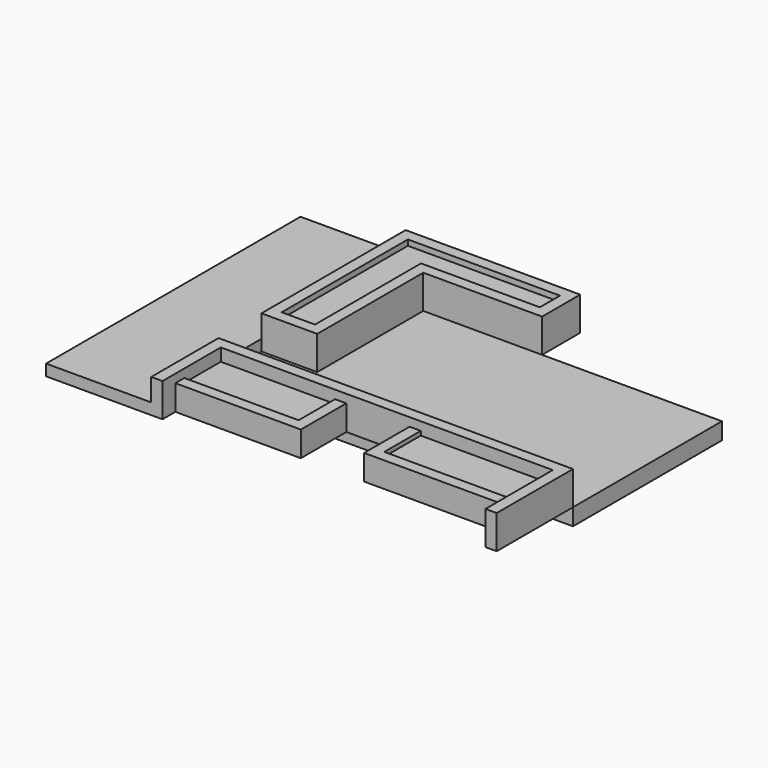
from build123d import *

# Parameters (mm, degrees)
F1_DEPTH = 203.2
F0_W     = 1949.45
F0_H     = 203.2
F2_DEPTH = 609.6
F0_W_2   = 2070.1
F0_W_3   = 2391.2020942688
F3_DEPTH = 457.2
F0_W_4   = 3257.55
F0_H_2   = 3372.4745738983
F4_DEPTH = 304.8
F5_DEPTH = 508
F0_H_3   = 825.5
F6_DEPTH = 381


with BuildPart() as f1:
    # F0 (on Top) → F1 (new body)
    with BuildSketch(Plane.XY):
        Polygon((0, 5760.0745738983), (0, 0), (1905, 0), (1905, 1320.8), (1905, 1524), (1905, 2496.1745738983), (1905, 2699.3745738983), (1905, 5760.0745738983), align=None)
    extrude(amount=F1_DEPTH)

    # F0 (on Top) → F2 (join)
    with BuildSketch(Plane.XY):
        Polygon((2108.2, 5760.0745738983), (1905, 5760.0745738983), (1905, 2699.3745738983), (2108.2, 2699.3745738983), (2108.2, 5556.8745738983), align=None)
        Polygon((5067.3, 5760.0745738983), (2108.2, 5760.0745738983), (2108.2, 5556.8745738983), (4864.1, 5556.8745738983), (5067.3, 5556.8745738983), align=None)
        Polygon((2711.45, 5099.6745738983), (2711.45, 2699.3745738983), (2914.65, 2699.3745738983), (2914.65, 4896.4745738983), (2914.65, 5099.6745738983), align=None)
        with Locations((3889.375, 4998.0745738983)):
            Rectangle(F0_W, F0_H)
        Polygon((4864.1, 4896.4745738983), (5067.3, 4896.4745738983), (5067.3, 5556.8745738983), (4864.1, 5556.8745738983), (4864.1, 5099.6745738983), align=None)
        Polygon((2108.2, 2699.3745738983), (1905, 2699.3745738983), (1905, 2496.1745738983), (2914.65, 2496.1745738983), (2914.65, 2699.3745738983), (2711.45, 2699.3745738983), align=None)
        Polygon((1905, 1320.8), (1905, 0), (2108.2, 0), (2108.2, 292.1), (2108.2, 495.3), (2108.2, 1320.8), align=None)
        Polygon((1905, 1524), (1905, 1320.8), (2108.2, 1320.8), (4178.3, 1320.8), (4381.5, 1320.8), (5527.2479057312, 1320.8), (5730.4479057312, 1320.8), (8121.65, 1320.8), (8324.85, 1320.8), (8324.85, 1524), (5067.3, 1524), align=None)
        Polygon((8324.85, -203.2), (8324.85, 1320.8), (8121.65, 1320.8), (8121.65, 495.3), (8121.65, 292.1), (8121.65, -203.2), align=None)
    extrude(amount=F2_DEPTH)

    # F0 (on Top) → F3 (join)
    with BuildSketch(Plane.XY):
        Polygon((4381.5, 1320.8), (4178.3, 1320.8), (4178.3, 495.3), (4178.3, 292.1), (4381.5, 292.1), align=None)
        with Locations((3143.25, 393.7)):
            Rectangle(F0_W_2, F0_H)
        Polygon((5730.4479057312, 1320.8), (5527.2479057312, 1320.8), (5527.2479057312, 292.1), (5730.4479057312, 292.1), (5730.4479057312, 495.3), align=None)
        with Locations((6926.0489528656, 393.7)):
            Rectangle(F0_W_3, F0_H)
    extrude(amount=F3_DEPTH)

    # F0 (on Top) → F4 (join)
    with BuildSketch(Plane.XY):
        Polygon((1905, 2496.1745738983), (1905, 1524), (5067.3, 1524), (5067.3, 4896.4745738983), (4864.1, 4896.4745738983), (2914.65, 4896.4745738983), (2914.65, 2699.3745738983), (2914.65, 2496.1745738983), align=None)
        with Locations((6696.075, 3210.2372869492)):
            Rectangle(F0_W_4, F0_H_2)
    extrude(amount=-F4_DEPTH)

    # F0 (on Top) → F5 (join)
    with BuildSketch(Plane.XY):
        Polygon((2108.2, 5556.8745738983), (2108.2, 2699.3745738983), (2711.45, 2699.3745738983), (2711.45, 5099.6745738983), (2914.65, 5099.6745738983), (4864.1, 5099.6745738983), (4864.1, 5556.8745738983), align=None)
    extrude(amount=F5_DEPTH)

    # F0 (on Top) → F6 (join)
    with BuildSketch(Plane.XY):
        with Locations((3143.25, 908.05)):
            Rectangle(F0_W_2, F0_H_3)
        with Locations((6926.0489528656, 908.05)):
            Rectangle(F0_W_3, F0_H_3)
    extrude(amount=F6_DEPTH)


solid = f1.part
